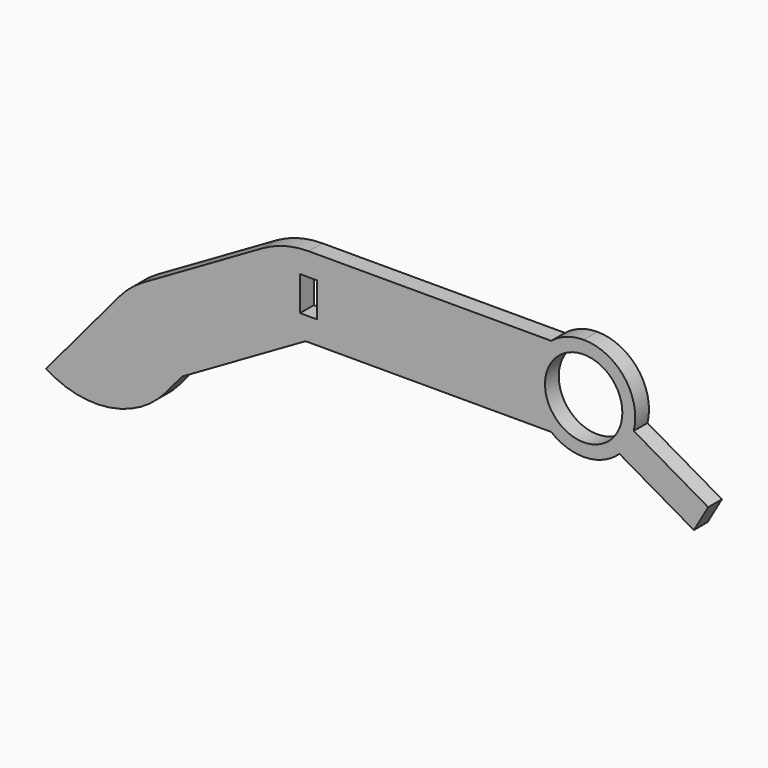
from build123d import *

# Parameters (mm, degrees)
F0_W     = 3
F0_H     = 6
F0_R     = 6.75
F1_DEPTH = 3


with BuildPart() as f1:
    # F0 (on Front) → F1 (new body)
    with BuildSketch(Plane.XZ):
        with BuildLine():
            Line((-46.090017, -19.444276), (-24.535898, -7))
            Line((-24.535898, -7), (18.343146, -7))
            ThreePointArc((18.343146, -7), (21, -8.485281), (24, -9))
            ThreePointArc((24, -9), (27.362164, -8.348404), (30.23749, -6.487968))
            Line((30.23749, -6.487968), (43.227871, -13.987968))
            Line((43.227871, -13.987968), (45.727871, -9.657841))
            Line((45.727871, -9.657841), (32.73749, -2.157841))
            ThreePointArc((32.73749, -2.157841), (31.085921, 5.548848), (24, 9))
            ThreePointArc((24, 9), (21, 8.485281), (18.343146, 7))
            Line((18.343146, 7), (-24, 7))
            ThreePointArc((-24, 7), (-28.141105, 6.454813), (-32, 4.856406))
            Line((-32, 4.856406), (-52.78461, -7.143594))
            ThreePointArc((-52.78461, -7.143594), (-55.069211, -8.743289), (-57.041321, -10.715398))
            Line((-57.041321, -10.715398), (-69.816408, -25.940155))
            ThreePointArc((-69.816408, -25.940155), (-58.754651, -28.314504), (-48.887849, -22.778603))
            Line((-48.887849, -22.778603), (-46.090017, -19.444276))
        make_face()
        with Locations((-24, 0)):
            Rectangle(F0_W, F0_H, mode=Mode.SUBTRACT)
        with Locations((24, 0)):
            Circle(F0_R, mode=Mode.SUBTRACT)
    extrude(amount=F1_DEPTH)


solid = f1.part
